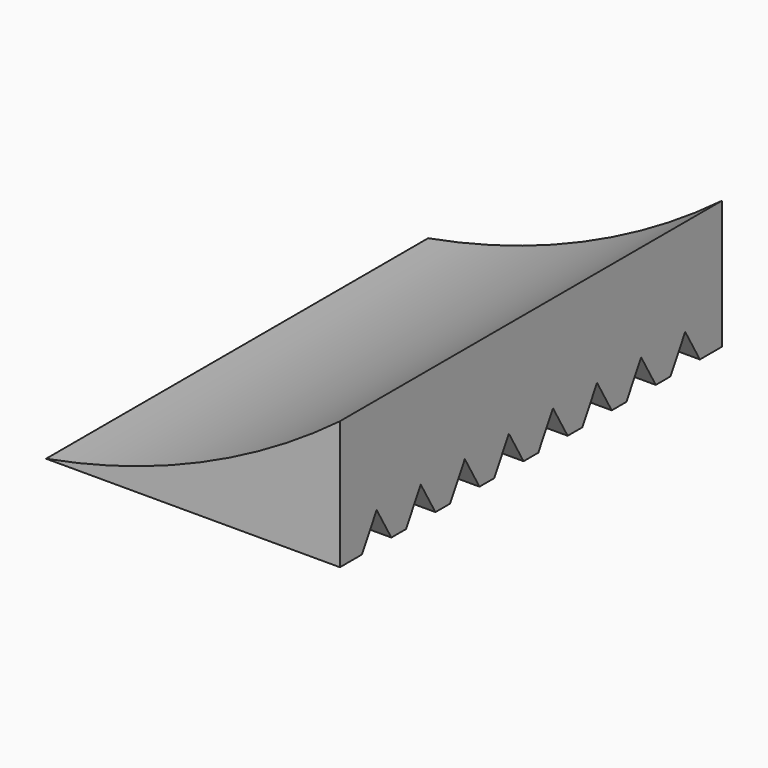
from build123d import *

# Parameters (mm, degrees)
F1_DEPTH = 130
F3_DEPTH = 38


with BuildPart() as f1:
    # F0 (on Front) → F1 (new body)
    with BuildSketch(Plane.XZ):
        with BuildLine():
            ThreePointArc((39.633115, 3.448032), (1.680451, -18.731595), (-40.366885, -31.551968))
            Line((-40.366885, -31.551968), (39.633115, -31.551968))
            Line((39.633115, -31.551968), (39.633115, 3.448032))
        make_face()
    extrude(amount=F1_DEPTH)

    # F2 (on face) → F3 (cut)
    with BuildSketch(Plane.YZ.offset(39.633115)):
        Polygon((-117.5, -22.891714), (-122.5, -31.551968), (-112.5, -31.551968), align=None)
        Polygon((-102.5, -22.891714), (-107.5, -31.551968), (-97.5, -31.551968), align=None)
        Polygon((-87.5, -22.891714), (-92.5, -31.551968), (-82.5, -31.551968), align=None)
        Polygon((-72.5, -22.891714), (-77.5, -31.551968), (-67.5, -31.551968), align=None)
        Polygon((-57.5, -22.891714), (-62.5, -31.551968), (-52.5, -31.551968), align=None)
        Polygon((-47.5, -31.551968), (-37.5, -31.551968), (-42.5, -22.891714), align=None)
        Polygon((-32.5, -31.551968), (-22.5, -31.551968), (-27.5, -22.891714), align=None)
        Polygon((-17.5, -31.551968), (-7.5, -31.551968), (-12.5, -22.891714), align=None)
    extrude(amount=-F3_DEPTH, mode=Mode.SUBTRACT)


solid = f1.part
